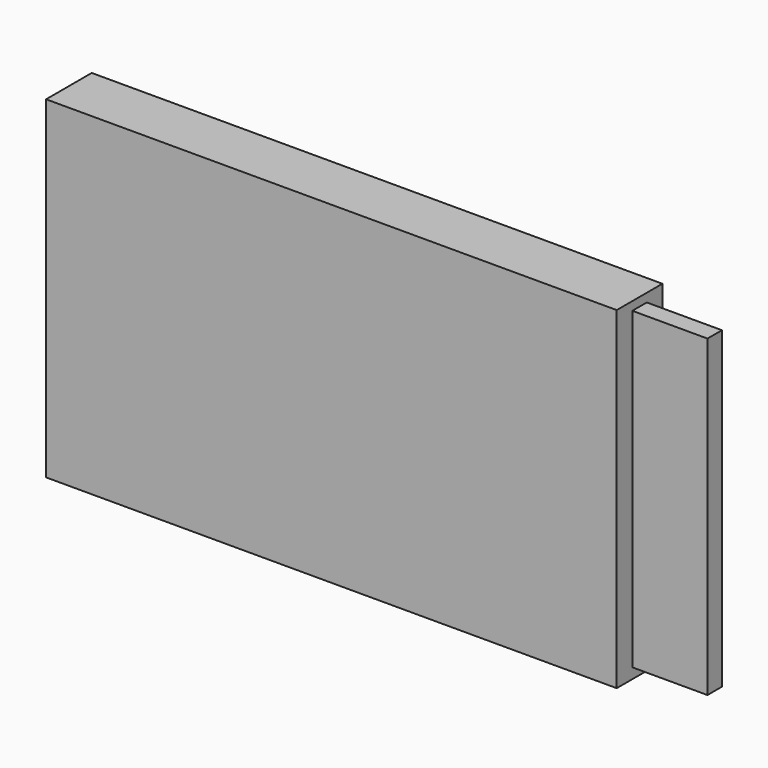
from build123d import *

# Parameters (mm, degrees)
F0_W     = 300
F0_H     = 175
F1_DEPTH = 30
F2_W     = 9.5
F2_H     = 165
F3_DEPTH = 39.5


with BuildPart() as f1:
    # F0 (on Front) → F1 (new body)
    with BuildSketch(Plane.XZ):
        Rectangle(F0_W, F0_H)
    extrude(amount=F1_DEPTH)

    # F2 (on face) → F3 (join)
    with BuildSketch(Plane.YZ.offset(150)):
        with Locations((-15, 0.5)):
            Rectangle(F2_W, F2_H)
    extrude(amount=F3_DEPTH)


solid = f1.part
